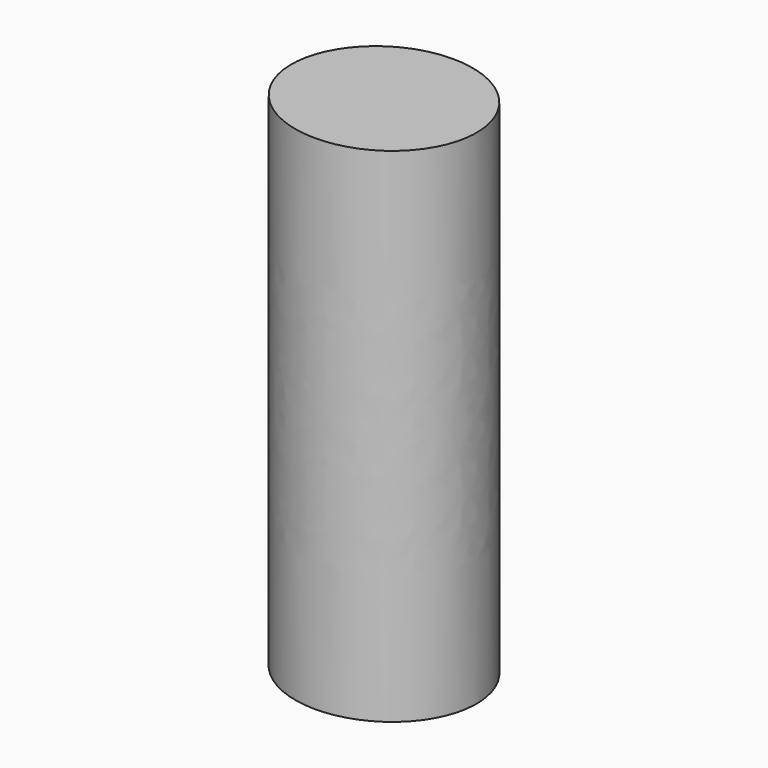
from build123d import *

# Parameters (mm, degrees)
F1_DEPTH = 38


with BuildPart() as f1:
    # F0 (on Top) → F1 (new body)
    with BuildSketch(Plane.XY):
        with BuildLine():
            ThreePointArc((0, -6.5), (4.596194, -4.596194), (6.5, 0))
            ThreePointArc((6.5, 0), (4.596194, 4.596194), (0, 6.5))
            ThreePointArc((0, 6.5), (-6.5, 0), (0, -6.5))
        make_face()
        with BuildLine():
            ThreePointArc((0, 6.5), (4.596194, 4.596194), (6.5, 0))
            ThreePointArc((6.5, 0), (4.596194, -4.596194), (0, -6.5))
            add(Edge.make_bspline(
                [(0, -6.5), (7, -6.5), (7, 0), (7, 6.5), (0, 6.5)],
                knots=[1.570796, 1.570796, 1.570796, 3.141593, 3.141593, 4.712389, 4.712389, 4.712389], degree=2, weights=[1, 0.707107, 1, 0.707107, 1]))
        make_face()
        with BuildLine():
            ThreePointArc((0, -6.5), (-6.5, 0), (0, 6.5))
            add(Edge.make_bspline(
                [(0, 6.5), (-7, 6.5), (-7, 0)],
                knots=[4.712389, 4.712389, 4.712389, 6.283185, 6.283185, 6.283185], degree=2, weights=[1, 0.707107, 1]))
            add(Edge.make_bspline(
                [(-7, 0), (-7, -6.5), (0, -6.5)],
                knots=[0, 0, 0, 1.570796, 1.570796, 1.570796], degree=2, weights=[1, 0.707107, 1]))
        make_face()
    extrude(amount=F1_DEPTH)


solid = f1.part
